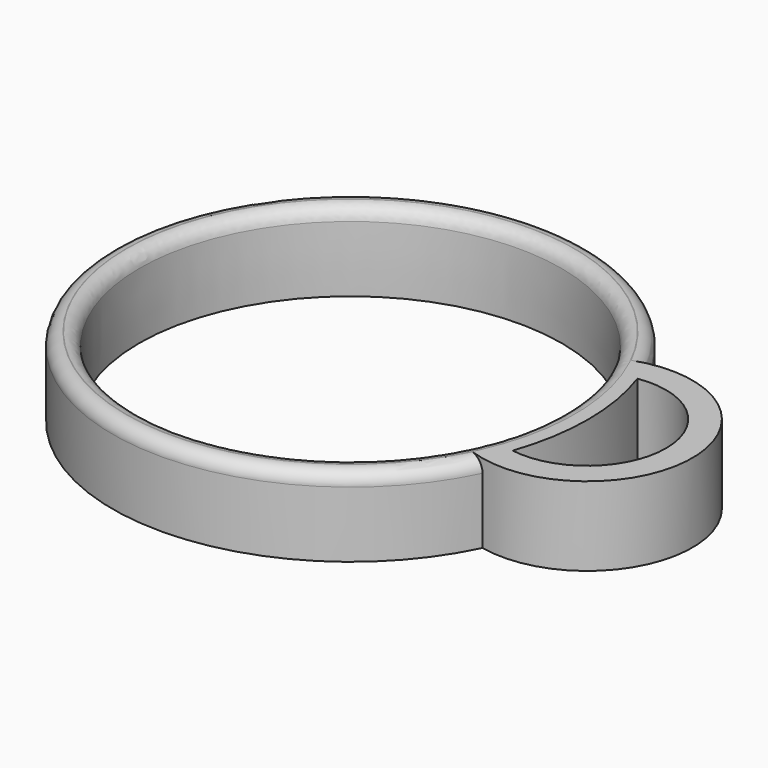
from build123d import *

# Parameters (mm, degrees)
F4_DEPTH = 1.5
F5_DEPTH = 1.5
F6_R     = 0.5


with BuildPart() as f2:
    # F1 (on Front) → F2 (revolve)
    with BuildSketch(Plane.XZ):
        with BuildLine():
            Line((-8.0375234668, 1.5), (-9.0375234668, 1.5))
            Line((-9.0375234668, 1.5), (-9.0375234668, -1.5))
            Line((-9.0375234668, -1.5), (-8.0375234668, -1.5))
            ThreePointArc((-8.0375234668, -1.5), (-8, 0), (-8.0375234668, 1.5))
        make_face()
    revolve(axis=Axis((0, 0, 9.5071946271), (0, 0, 1)))

    # F3 (on Top) → F4 (join)
    with BuildSketch(Plane.XY):
        with BuildLine():
            ThreePointArc((8.5376016897, -2.9641504352), (8.3565039155, -3.4417543091), (8.1487128008, -3.9083641213))
            ThreePointArc((8.1487128008, -3.9083641213), (13, 0), (8.1487128008, 3.9083641213))
            ThreePointArc((8.1487128008, 3.9083641213), (8.3565039155, 3.4417543091), (8.5376016897, 2.9641504352))
            ThreePointArc((8.5376016897, 2.9641504352), (12, 0), (8.5376016897, -2.9641504352))
        make_face()
    extrude(amount=-F4_DEPTH)

    # F5 (add): a face of the model
    f5_faces = [f2.faces().sort_by_distance(p)[0] for p in [
        (8.4430138573, 3.4773847555, 0),
    ]]
    extrude(f5_faces, amount=F5_DEPTH)

    # F6
    f6_edges = [f2.edges().sort_by_distance(p)[0] for p in [
        (-9.037523, 0, 1.5),
        (8.037523, 0, 1.5),
    ]]
    fillet(f6_edges, radius=F6_R)


solid = f2.part
